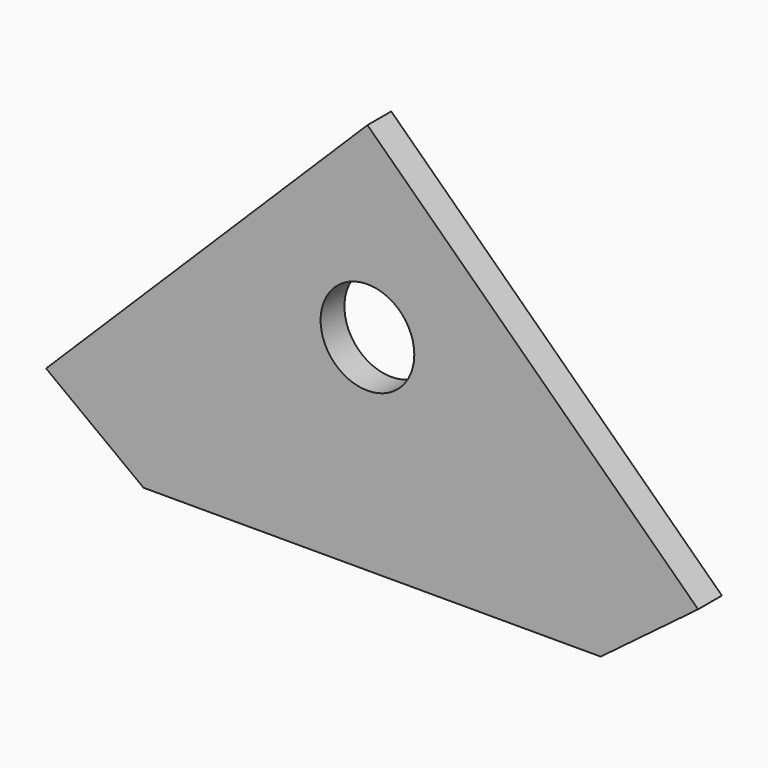
from build123d import *

# Parameters (mm, degrees)
F0_R     = 16.025
F0_R_2   = 11.025
F1_DEPTH = 7


with BuildPart() as f1:
    # F0 (on Front) → F1 (new body)
    with BuildSketch(Plane.XZ):
        Polygon((-20, -31.025), (0, -31.025), (20, -31.025), (54.8849254847, -31.025), (0, 31.025), (-52.6968166232, -31.025), align=None)
        Circle(F0_R, mode=Mode.SUBTRACT)
        Polygon((-75.6283551455, -31.025), (-52.6968166232, -31.025), (0, 31.025), (54.8849254847, -31.025), (77.8164654847, -31.025), (0, 43.9832359552), align=None)
        Polygon((20, -31.025), (0, -31.025), (-20, -31.025), (-52.6968166232, -31.025), (-75.6283551455, -31.025), (-52.6968166232, -48.2817813754), (54.8849254847, -48.2817813754), (77.8164654847, -31.025), (54.8849254847, -31.025), align=None)
        Circle(F0_R)
        Circle(F0_R_2, mode=Mode.SUBTRACT)
    extrude(amount=F1_DEPTH)


solid = f1.part
